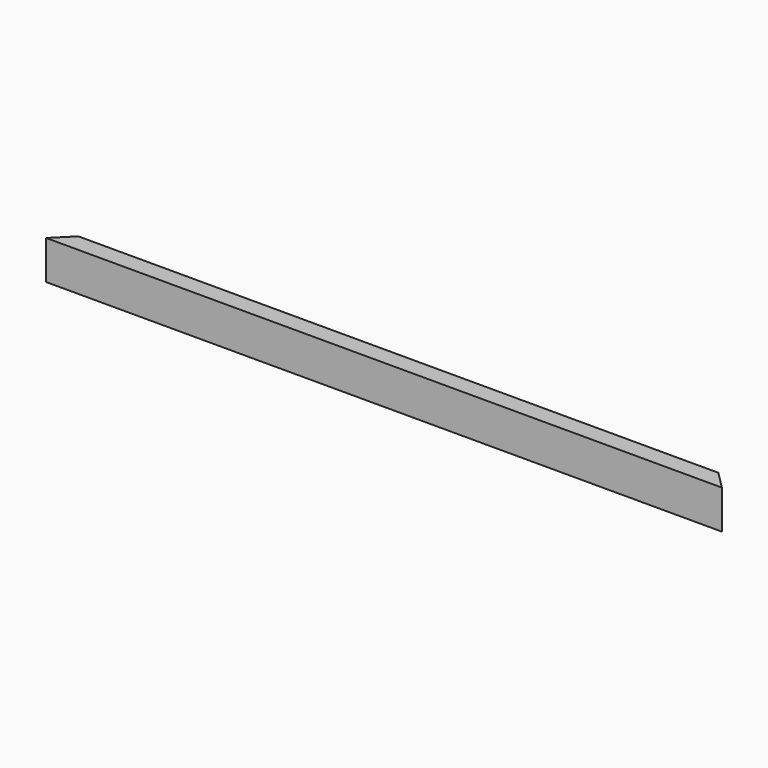
from build123d import *

# Parameters (mm, degrees)
PAD003_DEPTH         = 350
POCKET002_DEPTH      = 8.001
POCKET002_DEPTH_BACK = 30.001
SKETCH008_W          = 12
SKETCH008_H          = 12
POCKET003_DEPTH      = 226.501
POCKET003_DEPTH_BACK = 226.501


with BuildPart() as part:
    # Sketch005 → Pad003 (new body, symmetric)
    with BuildSketch(Plane.YZ):
        Polygon((-252, 0), (-252, 30), (-264, 25.632357), (-264, -8), (-256, -8), (-256, 0), align=None)
    extrude(amount=PAD003_DEPTH, both=True)

    # Sketch006 → Pocket002 (cut, two sides)
    with BuildSketch(Plane.XY) as pocket002_sk:
        Polygon((-350, -264), (-350, -252), (-214.5, -252), (-226.5, -264), align=None)
        Polygon((350, -264), (350, -252), (214.5, -252), (226.5, -264), align=None)
    extrude(amount=-POCKET002_DEPTH, mode=Mode.SUBTRACT)
    extrude(pocket002_sk.sketch, amount=POCKET002_DEPTH_BACK, mode=Mode.SUBTRACT)

    # Sketch008 → Pocket003 (cut, two sides)
    with BuildSketch(Plane.YZ) as pocket003_sk:
        with Locations((-258, 24)):
            Rectangle(SKETCH008_W, SKETCH008_H)
    extrude(amount=-POCKET003_DEPTH, mode=Mode.SUBTRACT)
    extrude(pocket003_sk.sketch, amount=POCKET003_DEPTH_BACK, mode=Mode.SUBTRACT)


solid = part.part
